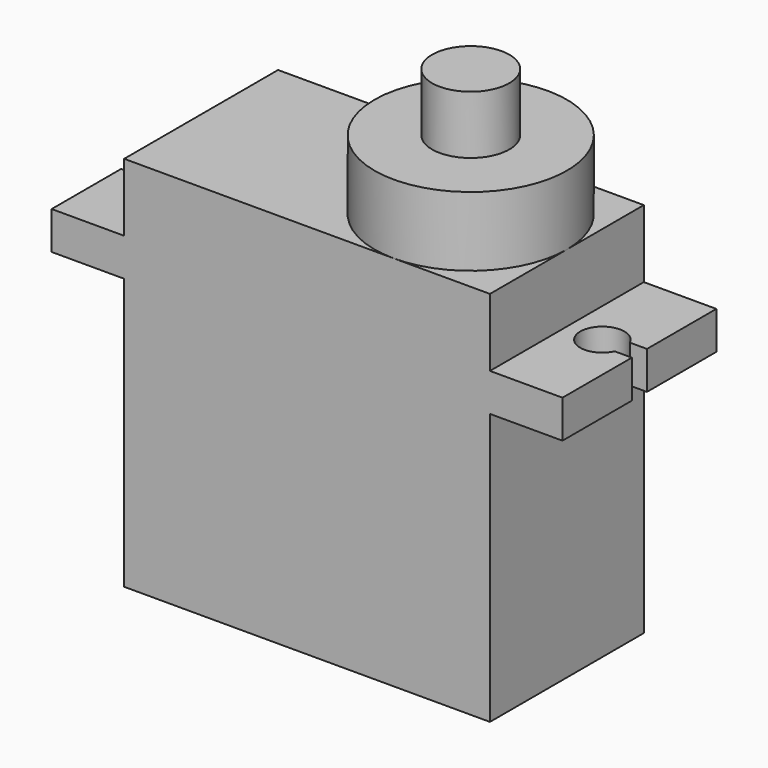
from build123d import *

# Parameters (mm, degrees)
PAD_DEPTH    = 6.1
POCKET_DEPTH = 2.4
SKETCH002_R  = 6.1
PAD001_DEPTH = 4.4
SKETCH003_R  = 2.45
PAD002_DEPTH = 3.7


with BuildPart() as part:
    # Sketch → Pad (new body, symmetric)
    with BuildSketch(Plane.XZ):
        Polygon((-11.6, 23.9), (-11.6, 19.6), (-16.2, 19.6), (-16.2, 17.2), (-11.6, 17.2), (-11.6, 0), (11.6, 0), (11.6, 17.2), (16.2, 17.2), (16.2, 19.6), (11.6, 19.6), (11.6, 23.9), align=None)
    extrude(amount=PAD_DEPTH, both=True)

    # Sketch001 (on Face2 of Pad) → Pocket (cut)
    with BuildSketch(Plane(origin=(0, 0, 19.6), x_dir=(-1, 0, 0), z_dir=(0, 0, 1))):
        with BuildLine():
            Line((-16.2, 0.6), (-15.114911, 0.6))
            ThreePointArc((-15.114911, -0.6), (-12.45, 0), (-15.114911, 0.6))
            Line((-16.2, -0.6), (-15.114911, -0.6))
            Line((-16.2, 0.6), (-16.2, -0.6))
        make_face()
        with BuildLine():
            Line((16.2, 0.6), (15.114911, 0.6))
            ThreePointArc((15.114911, 0.6), (12.45, 0), (15.114911, -0.6))
            Line((16.2, -0.6), (15.114911, -0.6))
            Line((16.2, 0.6), (16.2, -0.6))
        make_face()
    extrude(amount=-POCKET_DEPTH, mode=Mode.SUBTRACT)

    # Sketch002 (on Face2 of Pocket) → Pad001 (join)
    with BuildSketch(Plane(origin=(0, 0, 23.9), x_dir=(-1, 0, 0), z_dir=(0, 0, 1))):
        with Locations((-5.5, 0)):
            Circle(SKETCH002_R)
    extrude(amount=PAD001_DEPTH)

    # Sketch003 (on Face23 of Pad001) → Pad002 (join)
    with BuildSketch(Plane(origin=(0, 0, 28.3), x_dir=(-1, 0, 0), z_dir=(0, 0, 1))):
        with Locations((-5.5, 0)):
            Circle(SKETCH003_R)
    extrude(amount=PAD002_DEPTH)


solid = part.part
